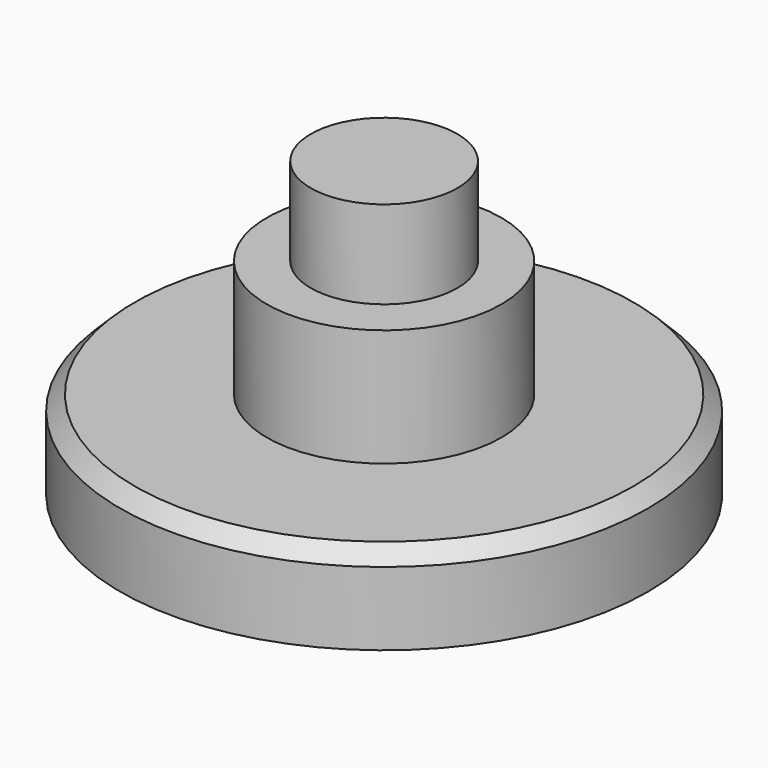
from build123d import *

# Parameters (mm, degrees)
F0_R     = 9
F1_DEPTH = 3
F2_SIZE  = 0.5
F3_R     = 4
F4_DEPTH = 4
F5_R     = 2.5
F6_DEPTH = 3


with BuildPart() as f1:
    # F0 (on Top) → F1 (new body)
    with BuildSketch(Plane.XY):
        Circle(F0_R)
    extrude(amount=F1_DEPTH)

    # F2
    f2_edges = [f1.edges().sort_by_distance(p)[0] for p in [
        (-9, 0, 3),
    ]]
    chamfer(f2_edges, length=F2_SIZE)

    # F3 (on face) → F4 (join)
    with BuildSketch(Plane.XY.offset(3)):
        Circle(F3_R)
    extrude(amount=F4_DEPTH)

    # F5 (on face) → F6 (join)
    with BuildSketch(Plane.XY.offset(7)):
        Circle(F5_R)
    extrude(amount=F6_DEPTH)


solid = f1.part
